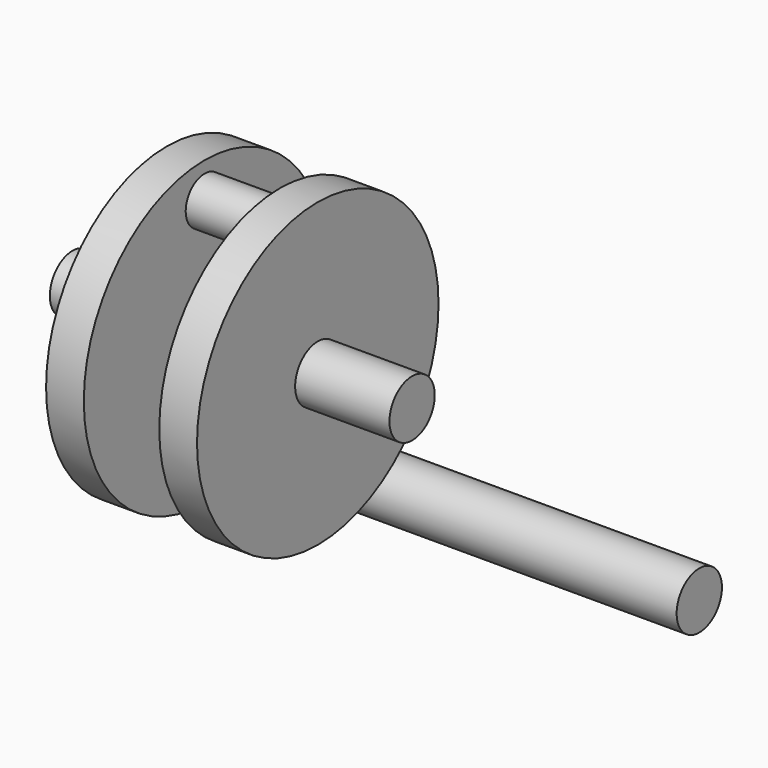
from build123d import *

# Parameters (mm, degrees)
F0_W     = 31.75
F0_H     = 9.525
F2_W     = 25.4
F2_H     = 7.9375
F4_R     = 9.525
F5_DEPTH = 111.76


with BuildPart() as f1:
    # F0 (on Front) → F1 (revolve)
    with BuildSketch(Plane.XZ):
        with Locations((-41.275, 4.7625)):
            Rectangle(F0_W, F0_H)
        Polygon((-25.4, 9.525), (-25.4, 0), (-12.7, 0), (-12.7, 38.89375), (-12.7, 46.83125), (-12.7, 50.8), (-25.4, 50.8), align=None)
    revolve(axis=Axis((-41.275, 0, 0), (-1, 0, 0)))



with BuildPart() as f1b:
    # F0 (on Front) → F1, piece 2 (revolve)
    with BuildSketch(Plane.XZ):
        Polygon((12.7, 46.83125), (12.7, 38.89375), (12.7, 0), (25.4, 0), (25.4, 9.525), (25.4, 50.8), (12.7, 50.8), align=None)
        with Locations((41.275, 4.7625)):
            Rectangle(F0_W, F0_H)
    revolve(axis=Axis((-41.275, 0, 0), (-1, 0, 0)))


with BuildPart() as f1_1:
    add(f1.part)

    add(f1b.part)  # F3 merges F1b
    # F2 (on Front) → F3 (revolve)
    with BuildSketch(Plane.XZ):
        with Locations((0, 42.8625)):
            Rectangle(F2_W, F2_H)
    revolve(axis=Axis((0, 0, 38.89375), (1, 0, 0)))


with BuildPart() as f5:
    # F4 (on Right) → F5 (new body)
    with BuildSketch(Plane.YZ):
        with Locations((52.5518395007, -60.524225235)):
            Circle(F4_R)
    extrude(amount=F5_DEPTH)


solid = Compound([f1_1.part, f5.part])
